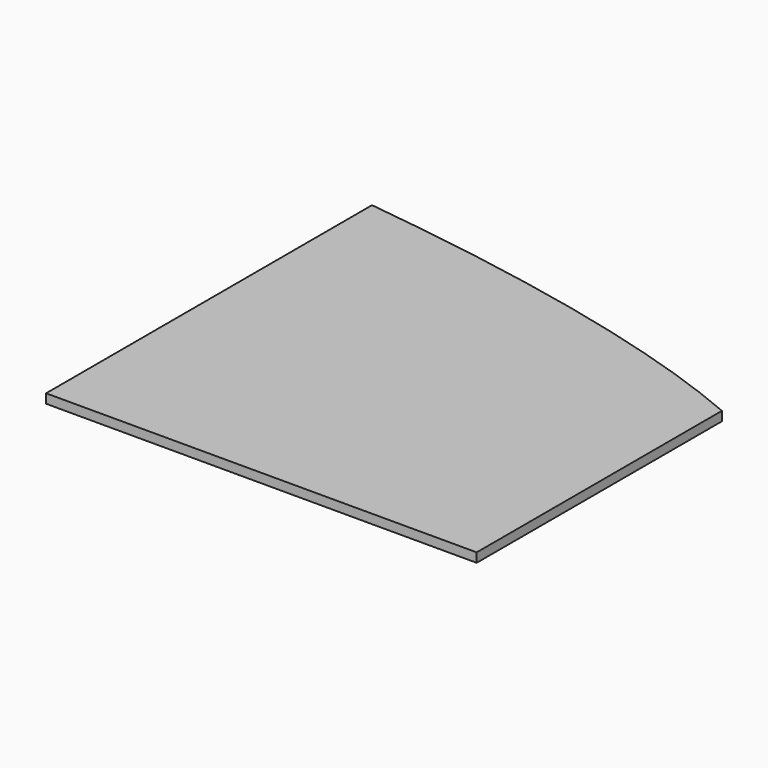
from build123d import *

# Parameters (mm, degrees)
F1_DEPTH = 3
F2_W     = 900
F2_H     = 300
F2_W_2   = 140
F2_H_2   = 295
F3_DEPTH = 25


with BuildPart() as f1:
    # F0 (on Top) → F1 (new body)
    with BuildSketch(Plane.XY):
        with BuildLine():
            Line((-155, 140), (-155, 0))
            Line((-155, 0), (165, 0))
            Line((165, 0), (165, 70))
            add(Edge.make_bspline(
                [(-155, 140), (-53.2024780843, 141.1128647565), (117.6642985985, 124.1903189238), (165, 70)],
                knots=[0, 0, 0, 0, 0.6796100777, 0.6796100777, 0.6796100777, 0.6796100777], degree=3))
        make_face()
        with BuildLine():
            Line((165, 70), (165, 0))
            Line((165, 0), (185, 0))
            add(Edge.make_bspline(
                [(165, 70), (187.315563281, 44.4529508308), (182.1765787186, 10.6232095777), (185, 0)],
                knots=[0.6796100777, 0.6796100777, 0.6796100777, 0.6796100777, 1, 1, 1, 1], degree=3))
        make_face()
        with BuildLine():
            Line((-155, 140), (-155, 0))
            Line((-155, 0), (165, 0))
            Line((165, 0), (165, 70))
            add(Edge.make_bspline(
                [(-155, 140), (-53.2024780843, 141.1128647565), (117.6642985985, 124.1903189238), (165, 70)],
                knots=[0, 0, 0, 0, 0.6796100777, 0.6796100777, 0.6796100777, 0.6796100777], degree=3))
        make_face()
    extrude(amount=F1_DEPTH)


with BuildPart() as f3:
    # F2 (on Top) → F3 (new body)
    with BuildSketch(Plane.XY):
        Rectangle(F2_W, F2_H)
        Rectangle(F2_W_2, F2_H_2, mode=Mode.SUBTRACT)
    extrude(amount=F3_DEPTH)


with BuildPart() as f3_1:
    # F4: moved
    add(f3.part.moved(Location((50, 0, 0))))


with BuildPart() as f1_1:
    add(f1.part)

    # F5: cut F3
    add(f3_1.part, mode=Mode.SUBTRACT)


solid = f1_1.part
